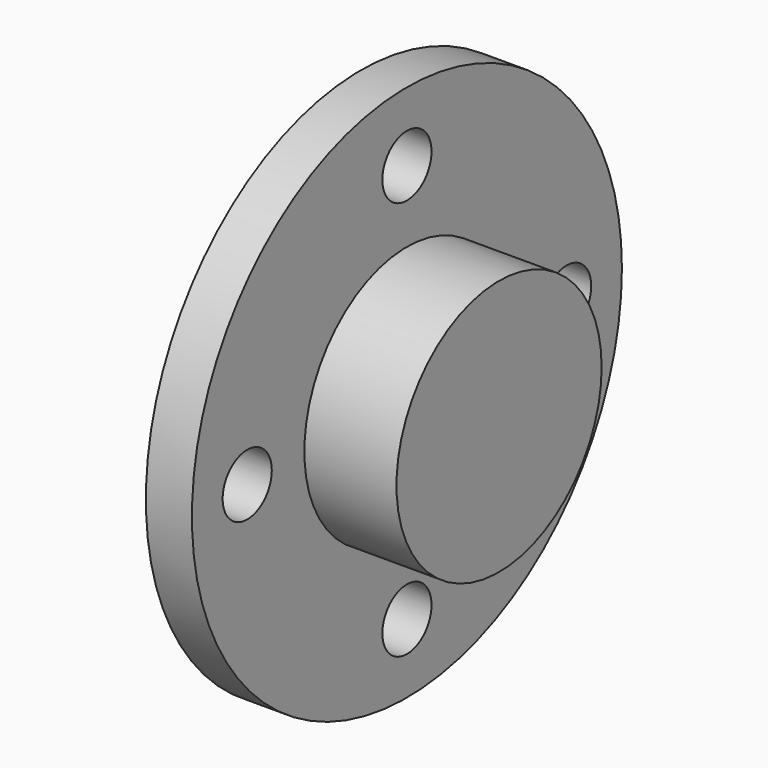
from build123d import *

# Parameters (mm, degrees)
F0_R     = 17.5
F0_R_2   = 2
F0_R_3   = 6.35
F1_DEPTH = 9
F2_R     = 17.5
F2_R_2   = 8.35
F3_DEPTH = 6
F4_R     = 6.4
F5_DEPTH = 1.5


with BuildPart() as f1:
    # F0 (on Right) → F1 (new body)
    with BuildSketch(Plane.YZ):
        Circle(F0_R)
        with Locations((0, -13)):
            Circle(F0_R_2, mode=Mode.SUBTRACT)
        with Locations((-13, 0)):
            Circle(F0_R_2, mode=Mode.SUBTRACT)
        Circle(F0_R_3, mode=Mode.SUBTRACT)
        with Locations((13, 0)):
            Circle(F0_R_2, mode=Mode.SUBTRACT)
        with Locations((0, 13)):
            Circle(F0_R_2, mode=Mode.SUBTRACT)
    extrude(amount=F1_DEPTH)

    # F2 (on face) → F3 (cut)
    with BuildSketch(Plane.YZ.offset(9)):
        Circle(F2_R)
        Circle(F2_R_2, mode=Mode.SUBTRACT)
    extrude(amount=-F3_DEPTH, mode=Mode.SUBTRACT)

    # F4 (on face) → F5 (join)
    with BuildSketch(Plane.YZ.offset(9)):
        Circle(F4_R)
    extrude(amount=-F5_DEPTH)


solid = f1.part
